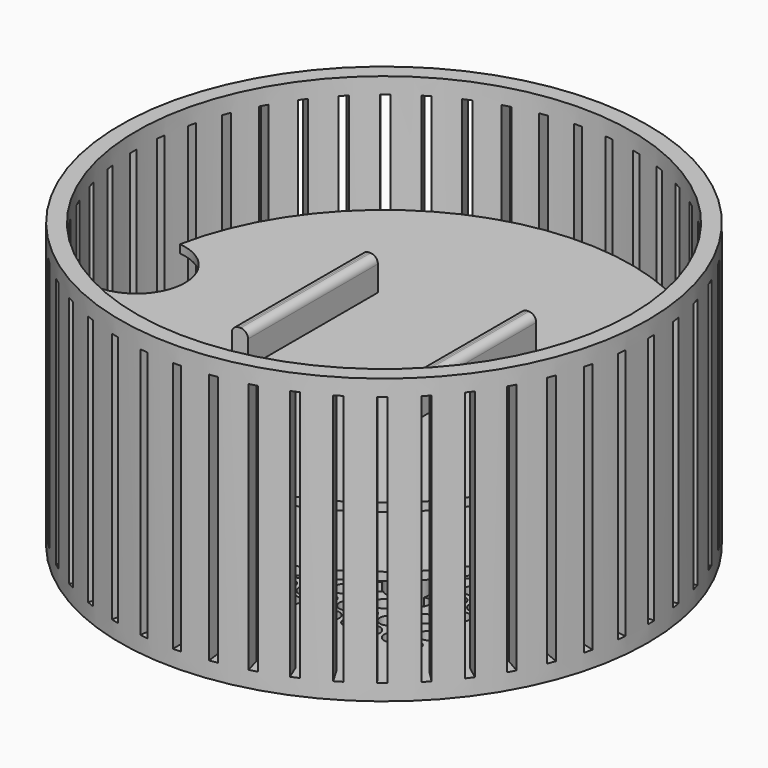
from build123d import *

# Parameters (mm, degrees)
SKETCH_R           = 32.5
EXTRUDE_DEPTH      = 35
THICKNESS_T        = -2
SKETCH007_R        = 1
POCKET_DEPTH       = 2
SKETCH008_W        = 1
SKETCH008_H        = 31
POCKET001_DEPTH    = 2.1
POLARPATTERN_COUNT = 48
SKETCH001_R        = 2.5
SKETCH001_R_2      = 1.25
EXTRUDE001_DEPTH   = 10
EXTRUDE002_DEPTH   = 1
EXTRUDE004_DEPTH   = 40.5
SKETCH003_W        = 40.5
SKETCH003_H        = 2
EXTRUDE003_DEPTH   = 1
FILLET_R           = 1
FILLET001_R        = 0.5
EXTRUDE005_DEPTH   = 1
SKETCH006_W        = 2
SKETCH006_H        = 20
EXTRUDE006_DEPTH   = 4
FILLET002_R        = 0.9
EXTRUDE007_DEPTH   = 1


with BuildPart() as body:
    # Sketch → Extrude (new body)
    with BuildSketch(Plane.XY):
        Circle(SKETCH_R)
    extrude(amount=EXTRUDE_DEPTH)

    # Thickness
    thickness_openings = [body.faces().sort_by_distance(p)[0] for p in [
        (0, 0, 35),
    ]]
    offset(amount=THICKNESS_T, openings=thickness_openings)

    # Sketch007 (on Face2 of Thickness) → Pocket (cut)
    with BuildSketch(Plane(origin=(0, 0, 0), x_dir=(1, 0, 0), z_dir=(0, 0, -1))):
        with Locations((-17.5, 17.5)):
            Circle(SKETCH007_R)
        with Locations((-15, 17.5)):
            Circle(SKETCH007_R)
        with Locations((-12.5, 17.5)):
            Circle(SKETCH007_R)
        with Locations((-10, 17.5)):
            Circle(SKETCH007_R)
        with Locations((-7.5, 17.5)):
            Circle(SKETCH007_R)
        with Locations((-5, 17.5)):
            Circle(SKETCH007_R)
        with Locations((-2.5, 17.5)):
            Circle(SKETCH007_R)
        with Locations((0, 17.5)):
            Circle(SKETCH007_R)
        with Locations((2.5, 17.5)):
            Circle(SKETCH007_R)
        with Locations((5, 17.5)):
            Circle(SKETCH007_R)
        with Locations((7.5, 17.5)):
            Circle(SKETCH007_R)
        with Locations((10, 17.5)):
            Circle(SKETCH007_R)
        with Locations((12.5, 17.5)):
            Circle(SKETCH007_R)
        with Locations((15, 17.5)):
            Circle(SKETCH007_R)
        with Locations((17.5, 17.5)):
            Circle(SKETCH007_R)
        with Locations((-17.5, 15)):
            Circle(SKETCH007_R)
        with Locations((-15, 15)):
            Circle(SKETCH007_R)
        with Locations((-12.5, 15)):
            Circle(SKETCH007_R)
        with Locations((-10, 15)):
            Circle(SKETCH007_R)
        with Locations((-7.5, 15)):
            Circle(SKETCH007_R)
        with Locations((-5, 15)):
            Circle(SKETCH007_R)
        with Locations((-2.5, 15)):
            Circle(SKETCH007_R)
        with Locations((0, 15)):
            Circle(SKETCH007_R)
        with Locations((2.5, 15)):
            Circle(SKETCH007_R)
        with Locations((5, 15)):
            Circle(SKETCH007_R)
        with Locations((7.5, 15)):
            Circle(SKETCH007_R)
        with Locations((10, 15)):
            Circle(SKETCH007_R)
        with Locations((12.5, 15)):
            Circle(SKETCH007_R)
        with Locations((15, 15)):
            Circle(SKETCH007_R)
        with Locations((17.5, 15)):
            Circle(SKETCH007_R)
        with Locations((-17.5, 12.5)):
            Circle(SKETCH007_R)
        with Locations((-15, 12.5)):
            Circle(SKETCH007_R)
        with Locations((-12.5, 12.5)):
            Circle(SKETCH007_R)
        with Locations((-10, 12.5)):
            Circle(SKETCH007_R)
        with Locations((-7.5, 12.5)):
            Circle(SKETCH007_R)
        with Locations((-5, 12.5)):
            Circle(SKETCH007_R)
        with Locations((-2.5, 12.5)):
            Circle(SKETCH007_R)
        with Locations((0, 12.5)):
            Circle(SKETCH007_R)
        with Locations((2.5, 12.5)):
            Circle(SKETCH007_R)
        with Locations((5, 12.5)):
            Circle(SKETCH007_R)
        with Locations((7.5, 12.5)):
            Circle(SKETCH007_R)
        with Locations((10, 12.5)):
            Circle(SKETCH007_R)
        with Locations((12.5, 12.5)):
            Circle(SKETCH007_R)
        with Locations((15, 12.5)):
            Circle(SKETCH007_R)
        with Locations((17.5, 12.5)):
            Circle(SKETCH007_R)
        with Locations((-17.5, 10)):
            Circle(SKETCH007_R)
        with Locations((-15, 10)):
            Circle(SKETCH007_R)
        with Locations((-12.5, 10)):
            Circle(SKETCH007_R)
        with Locations((-10, 10)):
            Circle(SKETCH007_R)
        with Locations((-7.5, 10)):
            Circle(SKETCH007_R)
        with Locations((-5, 10)):
            Circle(SKETCH007_R)
        with Locations((-2.5, 10)):
            Circle(SKETCH007_R)
        with Locations((0, 10)):
            Circle(SKETCH007_R)
        with Locations((2.5, 10)):
            Circle(SKETCH007_R)
        with Locations((5, 10)):
            Circle(SKETCH007_R)
        with Locations((7.5, 10)):
            Circle(SKETCH007_R)
        with Locations((10, 10)):
            Circle(SKETCH007_R)
        with Locations((12.5, 10)):
            Circle(SKETCH007_R)
        with Locations((15, 10)):
            Circle(SKETCH007_R)
        with Locations((17.5, 10)):
            Circle(SKETCH007_R)
        with Locations((-17.5, 7.5)):
            Circle(SKETCH007_R)
        with Locations((-15, 7.5)):
            Circle(SKETCH007_R)
        with Locations((-12.5, 7.5)):
            Circle(SKETCH007_R)
        with Locations((-10, 7.5)):
            Circle(SKETCH007_R)
        with Locations((-7.5, 7.5)):
            Circle(SKETCH007_R)
        with Locations((-5, 7.5)):
            Circle(SKETCH007_R)
        with Locations((-2.5, 7.5)):
            Circle(SKETCH007_R)
        with Locations((0, 7.5)):
            Circle(SKETCH007_R)
        with Locations((2.5, 7.5)):
            Circle(SKETCH007_R)
        with Locations((5, 7.5)):
            Circle(SKETCH007_R)
        with Locations((7.5, 7.5)):
            Circle(SKETCH007_R)
        with Locations((10, 7.5)):
            Circle(SKETCH007_R)
        with Locations((12.5, 7.5)):
            Circle(SKETCH007_R)
        with Locations((15, 7.5)):
            Circle(SKETCH007_R)
        with Locations((17.5, 7.5)):
            Circle(SKETCH007_R)
        with Locations((-17.5, 5)):
            Circle(SKETCH007_R)
        with Locations((-15, 5)):
            Circle(SKETCH007_R)
        with Locations((-12.5, 5)):
            Circle(SKETCH007_R)
        with Locations((-10, 5)):
            Circle(SKETCH007_R)
        with Locations((-7.5, 5)):
            Circle(SKETCH007_R)
        with Locations((-5, 5)):
            Circle(SKETCH007_R)
        with Locations((-2.5, 5)):
            Circle(SKETCH007_R)
        with Locations((0, 5)):
            Circle(SKETCH007_R)
        with Locations((2.5, 5)):
            Circle(SKETCH007_R)
        with Locations((5, 5)):
            Circle(SKETCH007_R)
        with Locations((7.5, 5)):
            Circle(SKETCH007_R)
        with Locations((10, 5)):
            Circle(SKETCH007_R)
        with Locations((12.5, 5)):
            Circle(SKETCH007_R)
        with Locations((15, 5)):
            Circle(SKETCH007_R)
        with Locations((17.5, 5)):
            Circle(SKETCH007_R)
        with Locations((-17.5, 2.5)):
            Circle(SKETCH007_R)
        with Locations((-15, 2.5)):
            Circle(SKETCH007_R)
        with Locations((-12.5, 2.5)):
            Circle(SKETCH007_R)
        with Locations((-10, 2.5)):
            Circle(SKETCH007_R)
        with Locations((-7.5, 2.5)):
            Circle(SKETCH007_R)
        with Locations((-5, 2.5)):
            Circle(SKETCH007_R)
        with Locations((-2.5, 2.5)):
            Circle(SKETCH007_R)
        with Locations((0, 2.5)):
            Circle(SKETCH007_R)
        with Locations((2.5, 2.5)):
            Circle(SKETCH007_R)
        with Locations((5, 2.5)):
            Circle(SKETCH007_R)
        with Locations((7.5, 2.5)):
            Circle(SKETCH007_R)
        with Locations((10, 2.5)):
            Circle(SKETCH007_R)
        with Locations((12.5, 2.5)):
            Circle(SKETCH007_R)
        with Locations((15, 2.5)):
            Circle(SKETCH007_R)
        with Locations((17.5, 2.5)):
            Circle(SKETCH007_R)
        with Locations((-17.5, 0)):
            Circle(SKETCH007_R)
        with Locations((-15, 0)):
            Circle(SKETCH007_R)
        with Locations((-12.5, 0)):
            Circle(SKETCH007_R)
        with Locations((-10, 0)):
            Circle(SKETCH007_R)
        with Locations((-7.5, 0)):
            Circle(SKETCH007_R)
        with Locations((-5, 0)):
            Circle(SKETCH007_R)
        with Locations((-2.5, 0)):
            Circle(SKETCH007_R)
        Circle(SKETCH007_R)
        with Locations((2.5, 0)):
            Circle(SKETCH007_R)
        with Locations((5, 0)):
            Circle(SKETCH007_R)
        with Locations((7.5, 0)):
            Circle(SKETCH007_R)
        with Locations((10, 0)):
            Circle(SKETCH007_R)
        with Locations((12.5, 0)):
            Circle(SKETCH007_R)
        with Locations((15, 0)):
            Circle(SKETCH007_R)
        with Locations((17.5, 0)):
            Circle(SKETCH007_R)
        with Locations((-17.5, -2.5)):
            Circle(SKETCH007_R)
        with Locations((-15, -2.5)):
            Circle(SKETCH007_R)
        with Locations((-12.5, -2.5)):
            Circle(SKETCH007_R)
        with Locations((-10, -2.5)):
            Circle(SKETCH007_R)
        with Locations((-7.5, -2.5)):
            Circle(SKETCH007_R)
        with Locations((-5, -2.5)):
            Circle(SKETCH007_R)
        with Locations((-2.5, -2.5)):
            Circle(SKETCH007_R)
        with Locations((0, -2.5)):
            Circle(SKETCH007_R)
        with Locations((2.5, -2.5)):
            Circle(SKETCH007_R)
        with Locations((5, -2.5)):
            Circle(SKETCH007_R)
        with Locations((7.5, -2.5)):
            Circle(SKETCH007_R)
        with Locations((10, -2.5)):
            Circle(SKETCH007_R)
        with Locations((12.5, -2.5)):
            Circle(SKETCH007_R)
        with Locations((15, -2.5)):
            Circle(SKETCH007_R)
        with Locations((17.5, -2.5)):
            Circle(SKETCH007_R)
        with Locations((-17.5, -5)):
            Circle(SKETCH007_R)
        with Locations((-15, -5)):
            Circle(SKETCH007_R)
        with Locations((-12.5, -5)):
            Circle(SKETCH007_R)
        with Locations((-10, -5)):
            Circle(SKETCH007_R)
        with Locations((-7.5, -5)):
            Circle(SKETCH007_R)
        with Locations((-5, -5)):
            Circle(SKETCH007_R)
        with Locations((-2.5, -5)):
            Circle(SKETCH007_R)
        with Locations((0, -5)):
            Circle(SKETCH007_R)
        with Locations((2.5, -5)):
            Circle(SKETCH007_R)
        with Locations((5, -5)):
            Circle(SKETCH007_R)
        with Locations((7.5, -5)):
            Circle(SKETCH007_R)
        with Locations((10, -5)):
            Circle(SKETCH007_R)
        with Locations((12.5, -5)):
            Circle(SKETCH007_R)
        with Locations((15, -5)):
            Circle(SKETCH007_R)
        with Locations((17.5, -5)):
            Circle(SKETCH007_R)
        with Locations((-17.5, -7.5)):
            Circle(SKETCH007_R)
        with Locations((-15, -7.5)):
            Circle(SKETCH007_R)
        with Locations((-12.5, -7.5)):
            Circle(SKETCH007_R)
        with Locations((-10, -7.5)):
            Circle(SKETCH007_R)
        with Locations((-7.5, -7.5)):
            Circle(SKETCH007_R)
        with Locations((-5, -7.5)):
            Circle(SKETCH007_R)
        with Locations((-2.5, -7.5)):
            Circle(SKETCH007_R)
        with Locations((0, -7.5)):
            Circle(SKETCH007_R)
        with Locations((2.5, -7.5)):
            Circle(SKETCH007_R)
        with Locations((5, -7.5)):
            Circle(SKETCH007_R)
        with Locations((7.5, -7.5)):
            Circle(SKETCH007_R)
        with Locations((10, -7.5)):
            Circle(SKETCH007_R)
        with Locations((12.5, -7.5)):
            Circle(SKETCH007_R)
        with Locations((15, -7.5)):
            Circle(SKETCH007_R)
        with Locations((17.5, -7.5)):
            Circle(SKETCH007_R)
        with Locations((-17.5, -10)):
            Circle(SKETCH007_R)
        with Locations((-15, -10)):
            Circle(SKETCH007_R)
        with Locations((-12.5, -10)):
            Circle(SKETCH007_R)
        with Locations((-10, -10)):
            Circle(SKETCH007_R)
        with Locations((-7.5, -10)):
            Circle(SKETCH007_R)
        with Locations((-5, -10)):
            Circle(SKETCH007_R)
        with Locations((-2.5, -10)):
            Circle(SKETCH007_R)
        with Locations((0, -10)):
            Circle(SKETCH007_R)
        with Locations((2.5, -10)):
            Circle(SKETCH007_R)
        with Locations((5, -10)):
            Circle(SKETCH007_R)
        with Locations((7.5, -10)):
            Circle(SKETCH007_R)
        with Locations((10, -10)):
            Circle(SKETCH007_R)
        with Locations((12.5, -10)):
            Circle(SKETCH007_R)
        with Locations((15, -10)):
            Circle(SKETCH007_R)
        with Locations((17.5, -10)):
            Circle(SKETCH007_R)
        with Locations((-17.5, -12.5)):
            Circle(SKETCH007_R)
        with Locations((-15, -12.5)):
            Circle(SKETCH007_R)
        with Locations((-12.5, -12.5)):
            Circle(SKETCH007_R)
        with Locations((-10, -12.5)):
            Circle(SKETCH007_R)
        with Locations((-7.5, -12.5)):
            Circle(SKETCH007_R)
        with Locations((-5, -12.5)):
            Circle(SKETCH007_R)
        with Locations((-2.5, -12.5)):
            Circle(SKETCH007_R)
        with Locations((0, -12.5)):
            Circle(SKETCH007_R)
        with Locations((2.5, -12.5)):
            Circle(SKETCH007_R)
        with Locations((5, -12.5)):
            Circle(SKETCH007_R)
        with Locations((7.5, -12.5)):
            Circle(SKETCH007_R)
        with Locations((10, -12.5)):
            Circle(SKETCH007_R)
        with Locations((12.5, -12.5)):
            Circle(SKETCH007_R)
        with Locations((15, -12.5)):
            Circle(SKETCH007_R)
        with Locations((17.5, -12.5)):
            Circle(SKETCH007_R)
        with Locations((-17.5, -15)):
            Circle(SKETCH007_R)
        with Locations((-15, -15)):
            Circle(SKETCH007_R)
        with Locations((-12.5, -15)):
            Circle(SKETCH007_R)
        with Locations((-10, -15)):
            Circle(SKETCH007_R)
        with Locations((-7.5, -15)):
            Circle(SKETCH007_R)
        with Locations((-5, -15)):
            Circle(SKETCH007_R)
        with Locations((-2.5, -15)):
            Circle(SKETCH007_R)
        with Locations((0, -15)):
            Circle(SKETCH007_R)
        with Locations((2.5, -15)):
            Circle(SKETCH007_R)
        with Locations((5, -15)):
            Circle(SKETCH007_R)
        with Locations((7.5, -15)):
            Circle(SKETCH007_R)
        with Locations((10, -15)):
            Circle(SKETCH007_R)
        with Locations((12.5, -15)):
            Circle(SKETCH007_R)
        with Locations((15, -15)):
            Circle(SKETCH007_R)
        with Locations((17.5, -15)):
            Circle(SKETCH007_R)
        with Locations((-17.5, -17.5)):
            Circle(SKETCH007_R)
        with Locations((-15, -17.5)):
            Circle(SKETCH007_R)
        with Locations((-12.5, -17.5)):
            Circle(SKETCH007_R)
        with Locations((-10, -17.5)):
            Circle(SKETCH007_R)
        with Locations((-7.5, -17.5)):
            Circle(SKETCH007_R)
        with Locations((-5, -17.5)):
            Circle(SKETCH007_R)
        with Locations((-2.5, -17.5)):
            Circle(SKETCH007_R)
        with Locations((0, -17.5)):
            Circle(SKETCH007_R)
        with Locations((2.5, -17.5)):
            Circle(SKETCH007_R)
        with Locations((5, -17.5)):
            Circle(SKETCH007_R)
        with Locations((7.5, -17.5)):
            Circle(SKETCH007_R)
        with Locations((10, -17.5)):
            Circle(SKETCH007_R)
        with Locations((12.5, -17.5)):
            Circle(SKETCH007_R)
        with Locations((15, -17.5)):
            Circle(SKETCH007_R)
        with Locations((17.5, -17.5)):
            Circle(SKETCH007_R)
    extrude(amount=-POCKET_DEPTH, mode=Mode.SUBTRACT)

    # Sketch008 → Pocket001 (cut)
    with BuildSketch(Plane.YZ.offset(32.5)):
        with Locations((0.5, 17.5)):
            Rectangle(SKETCH008_W, SKETCH008_H)
    pocket001 = extrude(amount=-POCKET001_DEPTH, mode=Mode.SUBTRACT)

    # PolarPattern: Pocket001 ×48 about axis
    polarpattern_axis = Axis((0, 0, 0), (0, 0, 1))
    for i in range(1, POLARPATTERN_COUNT):
        add(pocket001.rotate(polarpattern_axis, i * 360 / POLARPATTERN_COUNT), mode=Mode.SUBTRACT)


with BuildPart() as extrude001:
    # Sketch001 (on Face5 of Thickness) → Extrude001 (new body)
    with BuildSketch(Plane.XY.offset(2)):
        with Locations((9.75, 8.5)):
            Circle(SKETCH001_R)
        with Locations((9.75, 8.5)):
            Circle(SKETCH001_R_2, mode=Mode.SUBTRACT)
        with Locations((9.75, -8.5)):
            Circle(SKETCH001_R)
        with Locations((9.75, -8.5)):
            Circle(SKETCH001_R_2, mode=Mode.SUBTRACT)
        with Locations((-9.75, -8.5)):
            Circle(SKETCH001_R)
        with Locations((-9.75, -8.5)):
            Circle(SKETCH001_R_2, mode=Mode.SUBTRACT)
        with Locations((-9.75, 8.5)):
            Circle(SKETCH001_R)
        with Locations((-9.75, 8.5)):
            Circle(SKETCH001_R_2, mode=Mode.SUBTRACT)
    extrude(amount=EXTRUDE001_DEPTH)


with BuildPart() as extrude002:
    # Sketch002 → Extrude002 (new body)
    with BuildSketch(Plane.XY.offset(12)):
        with BuildLine():
            ThreePointArc((-29.909836, -5.970905), (-2.2e-05, -30.5), (29.909828, -5.970947))
            ThreePointArc((29.909844, 5.970863), (24.5, -3.5e-05), (29.909828, -5.970947))
            ThreePointArc((29.909844, 5.970863), (2.2e-05, 30.5), (-29.909836, 5.970905))
            ThreePointArc((-29.909836, -5.970905), (-24.5, 0), (-29.909836, 5.970905))
        make_face()
    extrude(amount=EXTRUDE002_DEPTH)


with BuildPart() as extrude004:
    # Sketch004 (on Face4 of Extrude003) → Extrude004 (new body)
    with BuildSketch(Plane(origin=(-20.25, 0, 0), x_dir=(0, -1, 0), z_dir=(-1, 0, 0))):
        with BuildLine():
            ThreePointArc((18.75, 13), (19.457107, 13.292893), (19.75, 14))
            Line((18.75, 14), (19.75, 14))
            Line((18.75, 14), (18.75, 13))
        make_face()
    extrude(amount=-EXTRUDE004_DEPTH)


with BuildPart() as fillet001:
    # Sketch003 (on Face6 of Extrude002) → Extrude003 (new body)
    with BuildSketch(Plane.XY.offset(13)):
        with Locations((0, -19.75)):
            Rectangle(SKETCH003_W, SKETCH003_H)
    extrude(amount=EXTRUDE003_DEPTH)

    # Cut: cut Extrude004
    add(extrude004.part, mode=Mode.SUBTRACT)

    # Fillet
    fillet_edges = [fillet001.edges().sort_by_distance(p)[0] for p in [
        (0, -19.75, 14),
    ]]
    fillet(fillet_edges, radius=FILLET_R)

    # Fillet001
    fillet001_edges = [fillet001.edges().sort_by_distance(p)[0] for p in [
        (0, -20.75, 14),
    ]]
    fillet(fillet001_edges, radius=FILLET001_R)


with BuildPart() as part_mirroring:
    # Part__Mirroring: instance of Fillet001
    add(fillet001.part.mirror(Plane(origin=(0, 0, 0), x_dir=(1, 0, 0), z_dir=(0, 1, 0))))


with BuildPart() as extrude005:
    # Sketch005 → Extrude005 (new body)
    with BuildSketch(Plane.XY.offset(19.5)):
        with BuildLine():
            ThreePointArc((-29.909836, -5.970905), (-2.2e-05, -30.5), (29.909828, -5.970947))
            ThreePointArc((29.909844, 5.970863), (24.5, -3.5e-05), (29.909828, -5.970947))
            ThreePointArc((29.909844, 5.970863), (2.2e-05, 30.5), (-29.909836, 5.970905))
            ThreePointArc((-29.909836, -5.970905), (-24.5, 0), (-29.909836, 5.970905))
        make_face()
    extrude(amount=EXTRUDE005_DEPTH)


with BuildPart() as fillet002:
    # Sketch006 (on Face6 of Extrude005) → Extrude006 (new body)
    with BuildSketch(Plane.XY.offset(20.5)):
        with Locations((-9.75, 0)):
            Rectangle(SKETCH006_W, SKETCH006_H)
        with Locations((9.75, 0)):
            Rectangle(SKETCH006_W, SKETCH006_H)
    extrude(amount=EXTRUDE006_DEPTH)

    # Fillet002
    fillet002_edges = [fillet002.edges().sort_by_distance(p)[0] for p in [
        (10.75, 0, 24.5),
        (8.75, 0, 24.5),
        (-8.75, 0, 24.5),
        (-10.75, 0, 24.5),
    ]]
    fillet(fillet002_edges, radius=FILLET002_R)


with BuildPart() as extrude007:
    # Sketch001 (on Face5 of Thickness) → Extrude007 (new body)
    with BuildSketch(Plane.XY.offset(2)):
        with Locations((9.75, 8.5)):
            Circle(SKETCH001_R)
        with Locations((9.75, 8.5)):
            Circle(SKETCH001_R_2, mode=Mode.SUBTRACT)
        with Locations((9.75, -8.5)):
            Circle(SKETCH001_R)
        with Locations((9.75, -8.5)):
            Circle(SKETCH001_R_2, mode=Mode.SUBTRACT)
        with Locations((-9.75, -8.5)):
            Circle(SKETCH001_R)
        with Locations((-9.75, -8.5)):
            Circle(SKETCH001_R_2, mode=Mode.SUBTRACT)
        with Locations((-9.75, 8.5)):
            Circle(SKETCH001_R)
        with Locations((-9.75, 8.5)):
            Circle(SKETCH001_R_2, mode=Mode.SUBTRACT)
    extrude(amount=-EXTRUDE007_DEPTH)


solid = Compound([body.part, extrude001.part, extrude002.part, part_mirroring.part, extrude005.part, fillet002.part, extrude007.part])
